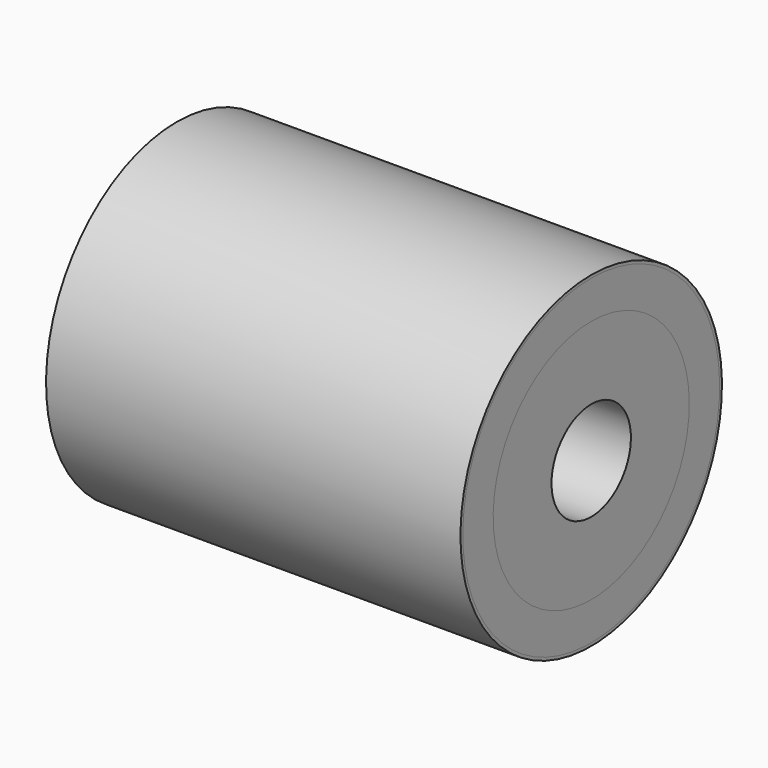
from build123d import *

# Parameters (mm, degrees)
F0_W   = 901.7
F0_H   = 6.35
F0_H_2 = 82.55


with BuildPart() as f1:
    # F0 (on Front) → F1 (revolve)
    with BuildSketch(Plane.XZ):
        with Locations((-450.85, 352.425)):
            Rectangle(F0_W, F0_H)
    revolve(axis=Axis((-0.751264, 0, 0), (1, 0, 0)))


with BuildPart() as f2:
    # F0 (on Front) → F2 (revolve)
    with BuildSketch(Plane.XZ):
        with Locations((-450.85, 307.975)):
            Rectangle(F0_W, F0_H_2)
    revolve(axis=Axis((-0.751264, 0, 0), (1, 0, 0)))


with BuildPart() as f3:
    # F0 (on Front) → F3 (revolve)
    with BuildSketch(Plane.XZ):
        Polygon((-304.8, 107.95), (0, 107.95), (0, 266.7), (-901.7, 266.7), (-901.7, 165.1), align=None)
    revolve(axis=Axis((-0.751264, 0, 0), (1, 0, 0)))


solid = Compound([f1.part, f2.part, f3.part])
